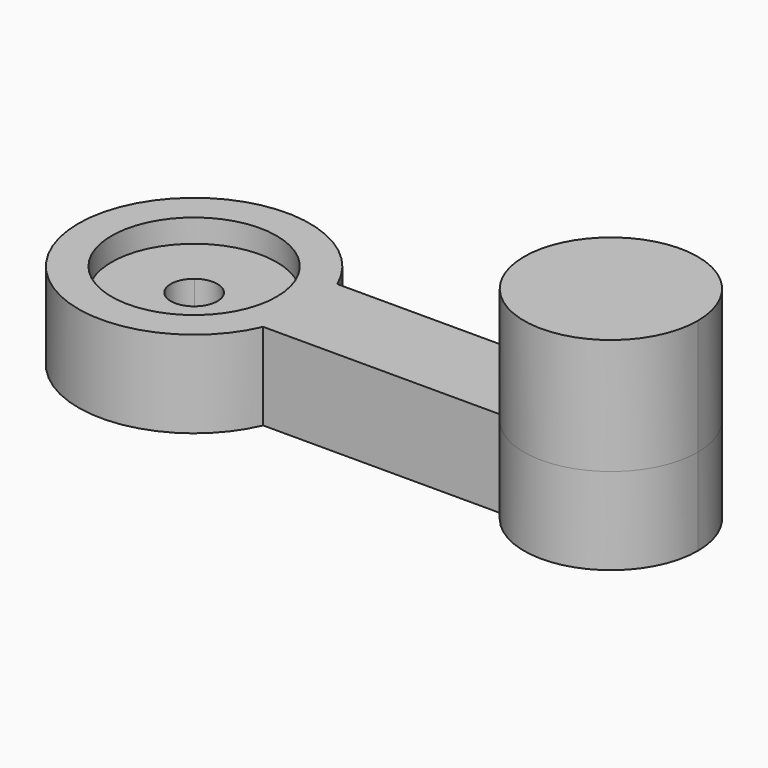
from build123d import *

# Parameters (mm, degrees)
F0_R     = 18.1102
F1_DEPTH = 19.05
F2_DEPTH = 25.4
F3_DEPTH = 5.08
F4_DEPTH = 11.176
F5_DEPTH = 20.32


with BuildPart() as f1:
    # F0 (on Top) → F1 (new body)
    with BuildSketch(Plane.XY):
        with BuildLine():
            ThreePointArc((23.279485, -10.16), (24.86422, -5.189465), (25.4, 0))
            ThreePointArc((25.4, 0), (24.86422, 5.189465), (23.279485, 10.16))
            ThreePointArc((23.279485, 10.16), (-25.4, 0), (23.279485, -10.16))
        make_face()
        Circle(F0_R, mode=Mode.SUBTRACT)
        Circle(F0_R)
        with BuildLine():
            ThreePointArc((3.127605, 4.0513), (4.593601, 2.256939), (5.1181, 0))
            ThreePointArc((5.1181, 0), (-2.256939, -4.593601), (-3.127605, 4.0513))
            ThreePointArc((-3.127605, 4.0513), (0, 5.1181), (3.127605, 4.0513))
        make_face(mode=Mode.SUBTRACT)
        with BuildLine():
            ThreePointArc((-3.127605, 4.0513), (-2.256939, -4.593601), (5.1181, 0))
            ThreePointArc((5.1181, 0), (4.593601, 2.256939), (3.127605, 4.0513))
            Line((3.127605, 4.0513), (-3.127605, 4.0513))
        make_face()
        with BuildLine():
            Line((-3.127605, 4.0513), (3.127605, 4.0513))
            ThreePointArc((3.127605, 4.0513), (0, 5.1181), (-3.127605, 4.0513))
        make_face()
        with BuildLine():
            Line((72.39, 0), (25.4, 0))
            ThreePointArc((25.4, 0), (24.86422, -5.189465), (23.279485, -10.16))
            Line((23.279485, -10.16), (75.325507, -10.16))
            ThreePointArc((75.325507, -10.16), (73.138585, -5.287788), (72.39, 0))
        make_face()
        with BuildLine():
            ThreePointArc((23.279485, 10.16), (24.86422, 5.189465), (25.4, 0))
            Line((25.4, 0), (72.39, 0))
            ThreePointArc((72.39, 0), (73.138585, 5.287788), (75.325507, 10.16))
            Line((75.325507, 10.16), (23.279485, 10.16))
        make_face()
        with BuildLine():
            ThreePointArc((75.325507, 10.16), (73.138585, 5.287788), (72.39, 0))
            ThreePointArc((72.39, 0), (73.138585, -5.287788), (75.325507, -10.16))
            ThreePointArc((75.325507, -10.16), (96.727788, -18.301415), (110.49, 0))
            ThreePointArc((110.49, 0), (96.727788, 18.301415), (75.325507, 10.16))
        make_face()
    extrude(amount=-F1_DEPTH)

    # F0 (on Top) → F2 (join)
    with BuildSketch(Plane.XY):
        with BuildLine():
            ThreePointArc((75.325507, 10.16), (73.138585, 5.287788), (72.39, 0))
            ThreePointArc((72.39, 0), (73.138585, -5.287788), (75.325507, -10.16))
            ThreePointArc((75.325507, -10.16), (96.727788, -18.301415), (110.49, 0))
            ThreePointArc((110.49, 0), (96.727788, 18.301415), (75.325507, 10.16))
        make_face()
    extrude(amount=F2_DEPTH)

    # F0 (on Top) → F3 (cut)
    with BuildSketch(Plane.XY):
        Circle(F0_R)
        with BuildLine():
            ThreePointArc((3.127605, 4.0513), (4.593601, 2.256939), (5.1181, 0))
            ThreePointArc((5.1181, 0), (-2.256939, -4.593601), (-3.127605, 4.0513))
            ThreePointArc((-3.127605, 4.0513), (0, 5.1181), (3.127605, 4.0513))
        make_face(mode=Mode.SUBTRACT)
        with BuildLine():
            ThreePointArc((-3.127605, 4.0513), (-2.256939, -4.593601), (5.1181, 0))
            ThreePointArc((5.1181, 0), (4.593601, 2.256939), (3.127605, 4.0513))
            Line((3.127605, 4.0513), (-3.127605, 4.0513))
        make_face()
        with BuildLine():
            Line((-3.127605, 4.0513), (3.127605, 4.0513))
            ThreePointArc((3.127605, 4.0513), (0, 5.1181), (-3.127605, 4.0513))
        make_face()
    extrude(amount=-F3_DEPTH, mode=Mode.SUBTRACT)

    # F0 (on Top) → F4 (cut)
    with BuildSketch(Plane.XY):
        with BuildLine():
            ThreePointArc((-3.127605, 4.0513), (-2.256939, -4.593601), (5.1181, 0))
            ThreePointArc((5.1181, 0), (4.593601, 2.256939), (3.127605, 4.0513))
            Line((3.127605, 4.0513), (-3.127605, 4.0513))
        make_face()
        with BuildLine():
            Line((-3.127605, 4.0513), (3.127605, 4.0513))
            ThreePointArc((3.127605, 4.0513), (0, 5.1181), (-3.127605, 4.0513))
        make_face()
    extrude(amount=-F4_DEPTH, mode=Mode.SUBTRACT)

    # F0 (on Top) → F5 (cut)
    with BuildSketch(Plane.XY):
        with BuildLine():
            ThreePointArc((-3.127605, 4.0513), (-2.256939, -4.593601), (5.1181, 0))
            ThreePointArc((5.1181, 0), (4.593601, 2.256939), (3.127605, 4.0513))
            Line((3.127605, 4.0513), (-3.127605, 4.0513))
        make_face()
    extrude(amount=-F5_DEPTH, mode=Mode.SUBTRACT)


solid = f1.part
